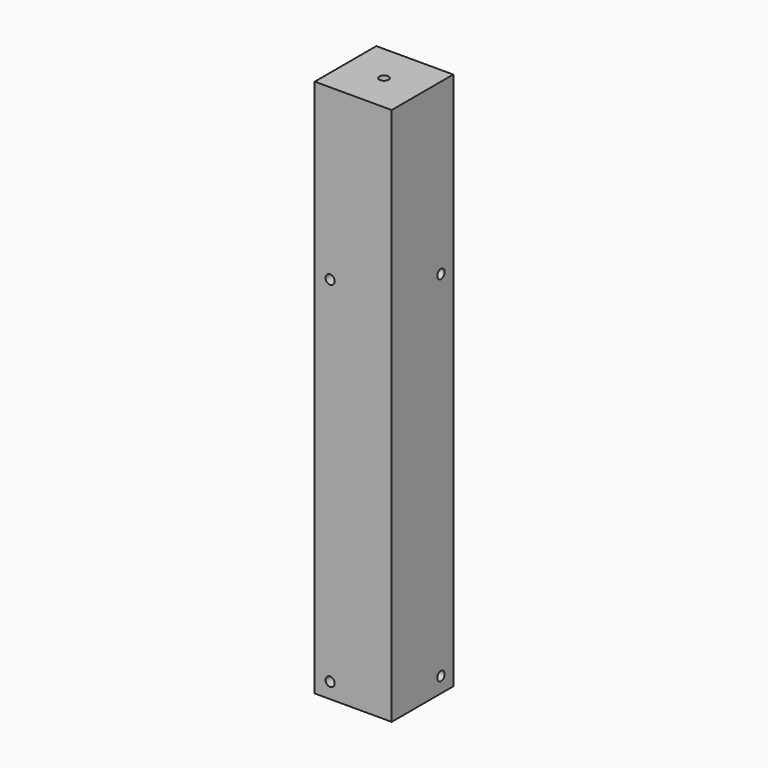
from build123d import *

# Parameters (mm, degrees)
F0_W     = 50
F0_H     = 50
F1_DEPTH = 350
F2_R     = 3
F3_DEPTH = 12
F4_R     = 3
F5_DEPTH = 12
F6_R     = 3
F7_DEPTH = 12
F8_R     = 3
F9_DEPTH = 12


with BuildPart() as f1:
    # F0 (on Top) → F1 (new body)
    with BuildSketch(Plane.XY):
        with Locations((25, 25)):
            Rectangle(F0_W, F0_H)
    extrude(amount=F1_DEPTH)

    # F2 (on face) → F3 (cut)
    with BuildSketch(Plane.XY.offset(350)):
        with Locations((25, 25)):
            Circle(F2_R)
    extrude(amount=-F3_DEPTH, mode=Mode.SUBTRACT)

    # F4 (on face) → F5 (cut)
    with BuildSketch(Plane.XZ):
        with Locations((10, 240)):
            Circle(F4_R)
        with Locations((10, 10)):
            Circle(F4_R)
    extrude(amount=-F5_DEPTH, mode=Mode.SUBTRACT)

    # F6 (on face) → F7 (cut)
    with BuildSketch(Plane.YZ.offset(50)):
        with Locations((40, 240)):
            Circle(F6_R)
        with Locations((40, 10)):
            Circle(F6_R)
    extrude(amount=-F7_DEPTH, mode=Mode.SUBTRACT)

    # F8 (on face) → F9 (cut)
    with BuildSketch(Plane(origin=(0, 0, 0), x_dir=(1, 0, 0), z_dir=(0, 0, -1))):
        with Locations((25, -25)):
            Circle(F8_R)
    extrude(amount=-F9_DEPTH, mode=Mode.SUBTRACT)


solid = f1.part
